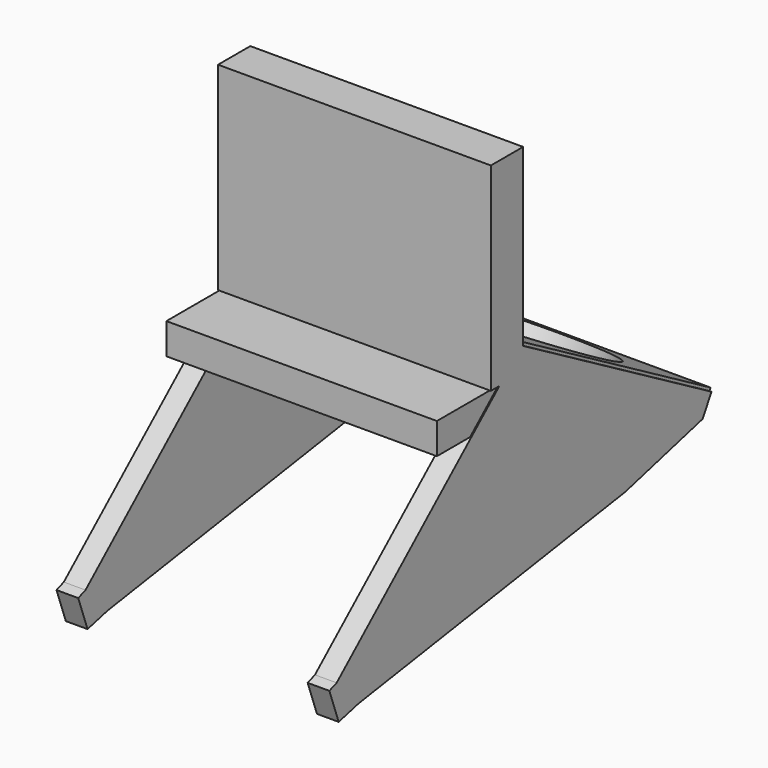
from build123d import *

# Parameters (mm, degrees)
EXTRUDE023_DEPTH                          = 7
EXTRUDE023_ONTO_SKETCH025_ROLL_ANGLE      = 90
EXTRUDE023_ONTO_SKETCH025_PITCH_ANGLE     = -30
EXTRUDE023_ONTO_SKETCH025_PLACEMENT_ANGLE = -90
SKETCH014_W                               = 87.248978
SKETCH014_H                               = 34.299007
EXTRUDE018_DEPTH                          = 10
EXTRUDE014_DEPTH                          = 7
EXTRUDE014_ONTO_SKETCH013_ROLL_ANGLE      = 90
EXTRUDE014_ONTO_SKETCH013_PITCH_ANGLE     = -30
EXTRUDE014_ONTO_SKETCH013_PLACEMENT_ANGLE = -90
SKETCH016_W                               = 88
SKETCH016_H                               = 88
SKETCH016_R                               = 38
EXTRUDE015_DEPTH                          = 7
EXTRUDE015_PLACEMENT_ANGLE                = 30
SKETCH015_W                               = 88
SKETCH015_H                               = 13
EXTRUDE017_DEPTH                          = 64


with BuildPart() as extrude023:
    # Sketch025 as drawn → Extrude023 (new)
    with BuildSketch(Plane.XY):
        Polygon((-123.305188, 6.070855), (-123.344503, -1.169558), (-100.406639, -23.66512), (-15.520081, -91.56636), (-9.4672, -97.367993), (-1.018409, -90.281281), (-3.036737, -87.875028), (-34.868234, 6.09489), align=None)
    extrude(amount=EXTRUDE023_DEPTH)


with BuildPart() as extrude023_1:
    # Extrude023 onto Sketch025 roll: moved
    add(extrude023.part.rotate(Axis((0, 0, 0), (1, 0, 0)), EXTRUDE023_ONTO_SKETCH025_ROLL_ANGLE))


with BuildPart() as extrude023_2:
    # Extrude023 onto Sketch025 pitch: moved
    add(extrude023_1.part.rotate(Axis((0, 0, 0), (0, 1, 0)), EXTRUDE023_ONTO_SKETCH025_PITCH_ANGLE))


with BuildPart() as extrude023_3:
    # Extrude023 onto Sketch025 placement: moved
    add(extrude023_2.part.moved(Location((42.577726, 14, 39))).rotate(Axis((42.577726, 14, 39), (0, 0, 1)), EXTRUDE023_ONTO_SKETCH025_PLACEMENT_ANGLE))


with BuildPart() as extrude023_4:
    # Extrude023 placement: moved
    add(extrude023_3.part.moved(Location((7, 0, 0))))


with BuildPart() as extrude018:
    # Sketch014 → Extrude018 (new body)
    with BuildSketch(Plane.XY):
        with Locations((83.604523, 30.688192)):
            Rectangle(SKETCH014_W, SKETCH014_H)
    extrude(amount=EXTRUDE018_DEPTH)


with BuildPart() as extrude018_1:
    # Extrude018 placement: moved
    add(extrude018.part.moved(Location((3, 0, 9))))


with BuildPart() as extrude014:
    # Sketch013 as drawn → Extrude014 (new)
    with BuildSketch(Plane.XY):
        Polygon((-123.305188, 6.070855), (-123.344503, -1.169558), (-100.406639, -23.66512), (-15.520081, -91.56636), (-9.4672, -97.367993), (-1.018409, -90.281281), (-3.036737, -87.875028), (-34.868234, 6.09489), align=None)
    extrude(amount=EXTRUDE014_DEPTH)


with BuildPart() as extrude014_1:
    # Extrude014 onto Sketch013 roll: moved
    add(extrude014.part.rotate(Axis((0, 0, 0), (1, 0, 0)), EXTRUDE014_ONTO_SKETCH013_ROLL_ANGLE))


with BuildPart() as extrude014_2:
    # Extrude014 onto Sketch013 pitch: moved
    add(extrude014_1.part.rotate(Axis((0, 0, 0), (0, 1, 0)), EXTRUDE014_ONTO_SKETCH013_PITCH_ANGLE))


with BuildPart() as extrude014_3:
    # Extrude014 onto Sketch013 placement: moved
    add(extrude014_2.part.moved(Location((42.577726, 14, 39))).rotate(Axis((42.577726, 14, 39), (0, 0, 1)), EXTRUDE014_ONTO_SKETCH013_PLACEMENT_ANGLE))


with BuildPart() as extrude014_4:
    # Extrude014 placement: moved
    add(extrude014_3.part.moved(Location((88, 0, 0))))


with BuildPart() as extrude015:
    # Sketch016 → Extrude015 (new body)
    with BuildSketch(Plane.XY):
        with Locations((83.189821, 78.875904)):
            Rectangle(SKETCH016_W, SKETCH016_H)
        with Locations((83.189821, 78.875904)):
            Circle(SKETCH016_R, mode=Mode.SUBTRACT)
    extrude(amount=EXTRUDE015_DEPTH)


with BuildPart() as extrude015_1:
    # Extrude015 placement: moved
    add(extrude015.part.moved(Location((3, 14, 39))).rotate(Axis((3, 14, 39), (-1, 0, 0)), EXTRUDE015_PLACEMENT_ANGLE))


with BuildPart() as suporte003:
    # Sketch015 → Extrude017 (new body)
    with BuildSketch(Plane.XY):
        with Locations((83.577726, 41.368692)):
            Rectangle(SKETCH015_W, SKETCH015_H)
    extrude(amount=EXTRUDE017_DEPTH)


with BuildPart() as suporte003_1:
    # Extrude017 placement: moved
    add(suporte003.part.moved(Location((3, 0, 19))))

    # Fusion002: union Extrude023, Extrude018, Extrude014, Extrude015
    add(extrude023_4.part)
    add(extrude018_1.part)
    add(extrude014_4.part)
    add(extrude015_1.part)


with BuildPart() as suporte003_2:
    # Fusion002 placement: moved
    add(suporte003_1.part.moved(Location((130, 10, -42))))


solid = suporte003_2.part
